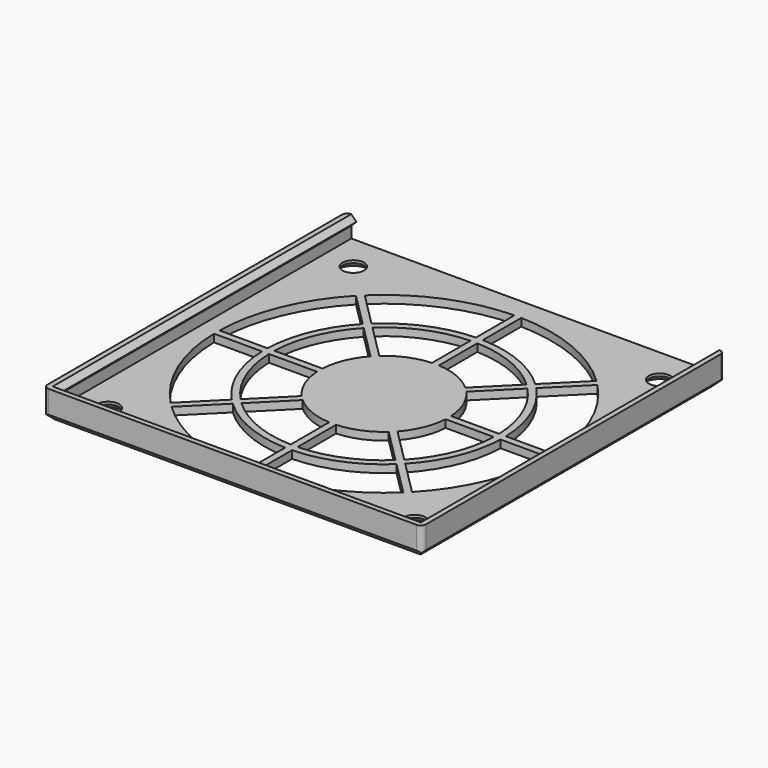
from build123d import *

# Parameters (mm, degrees)
PAD008_DEPTH          = 5
SKETCH022_W           = 88.2
SKETCH022_H           = 88.2
SKETCH022_R           = 2.5
PAD009_DEPTH          = 1.8
CHAMFER004_SIZE       = 1.2
PAD010_DEPTH          = 44.1
POCKET006_DEPTH       = 256.838707
POLARPATTERN002_COUNT = 8
CHAMFER005_SIZE       = 1.5
FILLET003_R           = 1.19


with BuildPart() as part:
    # Sketch021 → Pad008 (new body)
    with BuildSketch(Plane.XY.offset(-0.2)):
        Polygon((-42.9, 42.9), (-42.9, -42.9), (42.9, -42.9), (42.9, 42.9), (42.9, 44.1), (44.1, 44.1), (44.1, -44.1), (-44.1, -44.1), (-44.1, 44.1), (-42.9, 44.1), align=None)
    extrude(amount=-PAD008_DEPTH)

    # Sketch022 → Pad009 (join)
    with BuildSketch(Plane.XY.offset(-5.2)):
        Rectangle(SKETCH022_W, SKETCH022_H)
        with Locations((-35.7, 35.7)):
            Circle(SKETCH022_R, mode=Mode.SUBTRACT)
        with Locations((35.7, 35.7)):
            Circle(SKETCH022_R, mode=Mode.SUBTRACT)
        with Locations((35.7, -35.7)):
            Circle(SKETCH022_R, mode=Mode.SUBTRACT)
        with Locations((-35.7, -35.7)):
            Circle(SKETCH022_R, mode=Mode.SUBTRACT)
    extrude(amount=-PAD009_DEPTH)

    # Chamfer004
    chamfer004_edges = [part.edges().sort_by_distance(p)[0] for p in [
        (-38.2, 35.7, -7),
        (-38.2, -35.7, -7),
        (33.2, -35.7, -7),
        (33.2, 35.7, -7),
    ]]
    chamfer(chamfer004_edges, length=CHAMFER004_SIZE)

    # Sketch023 → Pad010 (join, symmetric)
    with BuildSketch(Plane.XZ):
        Polygon((42.9, -0.2), (42.9, -2.6), (41.7, -1.4), align=None)
        Polygon((-42.9, -0.2), (-42.9, -2.6), (-41.7, -1.4), align=None)
    extrude(amount=PAD010_DEPTH, both=True)

    # Sketch024 → Pocket006 (cut, through all)
    with BuildSketch(Plane.XY):
        with BuildLine():
            ThreePointArc((27.005677, 28.137047), (14.924654, 36.031302), (0.8, 38.991794))
            Line((0.8, 38.991794), (0.8, 27.785223))
            ThreePointArc((19.081434, 20.212805), (10.637351, 25.680837), (0.8, 27.785223))
            Line((19.081434, 20.212805), (27.005677, 28.137047))
        make_face()
        with BuildLine():
            ThreePointArc((17.950063, 19.081434), (10.025326, 24.203279), (0.8, 26.185223))
            Line((0.8, 14.978651), (0.8, 26.185223))
            ThreePointArc((10.025821, 11.157191), (5.740251, 13.858193), (0.8, 14.978651))
            Line((10.025821, 11.157191), (17.950063, 19.081434))
        make_face()
    pocket006 = extrude(amount=-POCKET006_DEPTH, mode=Mode.SUBTRACT)

    # PolarPattern002: Pocket006 ×8 about axis
    polarpattern002_axis = Axis((0, 0, 0), (0, 0, 1))
    for i in range(1, POLARPATTERN002_COUNT):
        add(pocket006.rotate(polarpattern002_axis, i * 360 / POLARPATTERN002_COUNT), mode=Mode.SUBTRACT)

    # Chamfer005
    chamfer005_edges = [part.edges().sort_by_distance(p)[0] for p in [
        (-44.1, 0, -7),
        (0, -44.1, -7),
        (44.1, 0, -7),
        (0, 44.1, -7),
    ]]
    chamfer(chamfer005_edges, length=CHAMFER005_SIZE)

    # Fillet003
    fillet003_edges = [part.edges().sort_by_distance(p)[0] for p in [
        (-44.1, 44.1, -2.85),
        (-44.1, -44.1, -2.85),
        (44.1, 44.1, -2.85),
        (44.1, -44.1, -2.85),
    ]]
    fillet(fillet003_edges, radius=FILLET003_R)


solid = part.part
